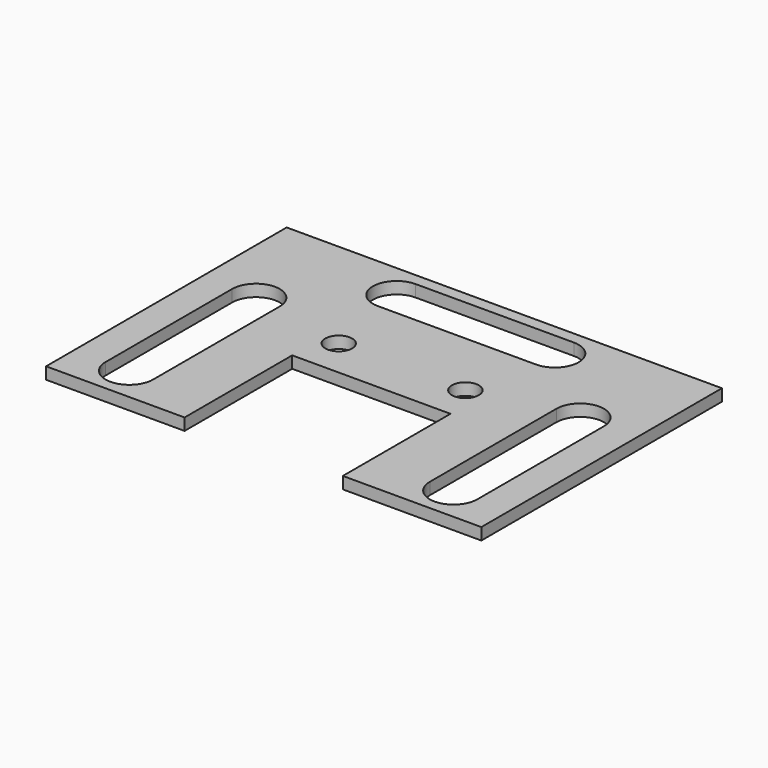
from build123d import *

# Parameters (mm, degrees)
SKETCH_R  = 1.7
PAD_DEPTH = 1.5


with BuildPart() as part:
    # Sketch → Pad (new body)
    with BuildSketch(Plane.XY):
        Polygon((-27.5, 19), (27.5, 19), (27.5, -19), (10, -19), (10, -2), (-10, -2), (-10, -19), (-27.5, -19), align=None)
        with Locations((-8, 2.85)):
            Circle(SKETCH_R, mode=Mode.SUBTRACT)
        with Locations((8, 2.85)):
            Circle(SKETCH_R, mode=Mode.SUBTRACT)
        with BuildLine():
            ThreePointArc((-10, 17.5), (-13, 14.5), (-10, 11.5))
            Line((-10, 11.5), (10, 11.5))
            ThreePointArc((10, 11.5), (13, 14.5), (10, 17.5))
            Line((-10, 17.5), (10, 17.5))
        make_face(mode=Mode.SUBTRACT)
        with BuildLine():
            ThreePointArc((23.485, 5.38), (20.485, 8.38), (17.485, 5.38))
            Line((17.485, 5.38), (17.485, -14.62))
            ThreePointArc((17.485, -14.62), (20.485, -17.62), (23.485, -14.62))
            Line((23.485, 5.38), (23.485, -14.62))
        make_face(mode=Mode.SUBTRACT)
        with BuildLine():
            ThreePointArc((-23.485, -14.62), (-20.485, -17.62), (-17.485, -14.62))
            Line((-17.485, -14.62), (-17.485, 5.38))
            ThreePointArc((-17.485, 5.38), (-20.485, 8.38), (-23.485, 5.38))
            Line((-23.485, -14.62), (-23.485, 5.38))
        make_face(mode=Mode.SUBTRACT)
    extrude(amount=PAD_DEPTH)


solid = part.part
